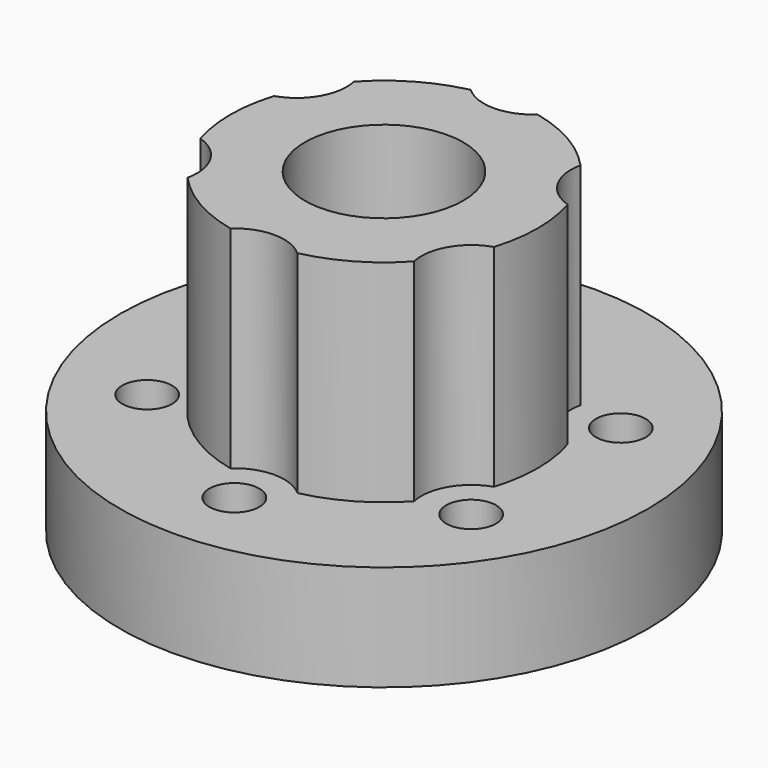
from build123d import *

# Parameters (mm, degrees)
F0_R     = 31.75
F1_DEPTH = 12.7
F2_R     = 3
F3_DEPTH = 12.701
F4_R     = 9.95
F5_DEPTH = 12.7
F7_DEPTH = 25.4
F8_R     = 9.525
F9_DEPTH = 19.05


with BuildPart() as f1:
    # F0 (on Top) → F1 (new body)
    with BuildSketch(Plane.XY):
        Circle(F0_R)
    extrude(amount=F1_DEPTH)

    # F2 (on face) → F3 (cut, through all)
    with BuildSketch(Plane.XY.offset(12.7)):
        with Locations((0, 22.5)):
            Circle(F2_R)
        with Locations((-19.485572, 11.25)):
            Circle(F2_R)
        with Locations((-19.485572, -11.25)):
            Circle(F2_R)
        with Locations((0, -22.5)):
            Circle(F2_R)
        with Locations((19.485572, -11.25)):
            Circle(F2_R)
        with Locations((19.485572, 11.25)):
            Circle(F2_R)
    extrude(amount=-F3_DEPTH, mode=Mode.SUBTRACT)

    # F4 (on face) → F5 (cut)
    with BuildSketch(Plane(origin=(0, 0, 0), x_dir=(1, 0, 0), z_dir=(0, 0, -1))):
        Circle(F4_R)
    extrude(amount=-F5_DEPTH, mode=Mode.SUBTRACT)

    # F6 (on face) → F7 (join)
    with BuildSketch(Plane.XY.offset(12.7)):
        with BuildLine():
            ThreePointArc((-4.030746, -18.055556), (0, -16.5), (4.030746, -18.055556))
            ThreePointArc((4.030746, -18.055556), (9.25, -16.02147), (13.621197, -12.518506))
            ThreePointArc((13.621197, -12.518506), (14.289419, -8.25), (17.651943, -5.537049))
            ThreePointArc((17.651943, -5.537049), (18.5, 0), (17.651943, 5.537049))
            ThreePointArc((17.651943, 5.537049), (14.289419, 8.25), (13.621197, 12.518506))
            ThreePointArc((13.621197, 12.518506), (9.25, 16.02147), (4.030746, 18.055556))
            ThreePointArc((4.030746, 18.055556), (0, 16.5), (-4.030746, 18.055556))
            ThreePointArc((-4.030746, 18.055556), (-9.25, 16.02147), (-13.621197, 12.518506))
            ThreePointArc((-13.621197, 12.518506), (-14.289419, 8.25), (-17.651943, 5.537049))
            ThreePointArc((-17.651943, 5.537049), (-18.5, 0), (-17.651943, -5.537049))
            ThreePointArc((-17.651943, -5.537049), (-14.289419, -8.25), (-13.621197, -12.518506))
            ThreePointArc((-13.621197, -12.518506), (-9.25, -16.02147), (-4.030746, -18.055556))
        make_face()
    extrude(amount=F7_DEPTH)

    # F8 (on face) → F9 (cut)
    with BuildSketch(Plane.XY.offset(38.1)):
        Circle(F8_R)
    extrude(amount=-F9_DEPTH, mode=Mode.SUBTRACT)


solid = f1.part
